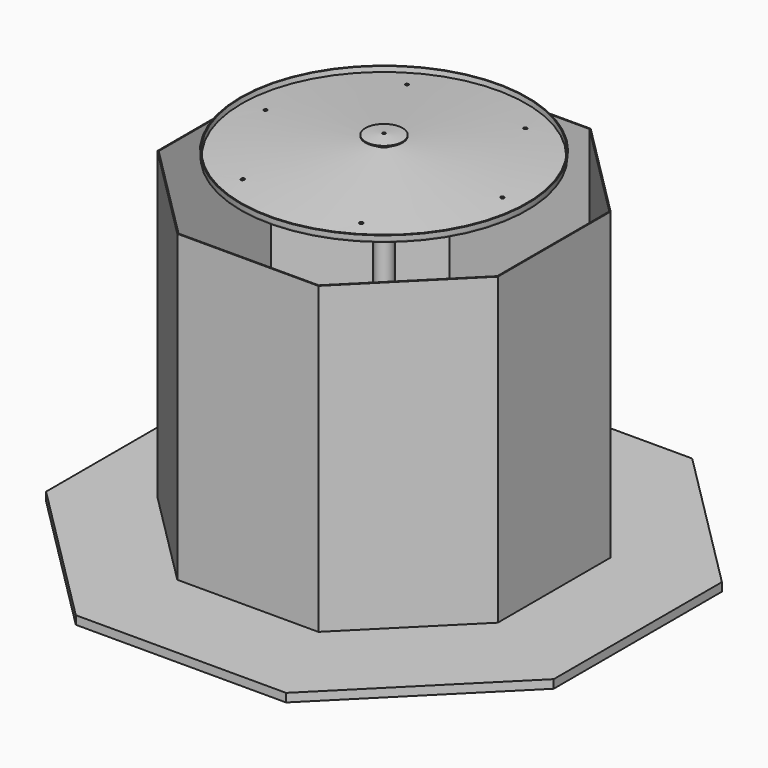
from build123d import *

# Parameters (mm, degrees)
F0_R      = 25
F0_R_2    = 23.75
F1_DEPTH  = 1000
F0_R_3    = 5
F0_R_4    = 4.5
F2_DEPTH  = 25
F6_R      = 5
F7_DEPTH  = 1025.001
F8_DEPTH  = 900
F9_DEPTH  = 25
F10_R     = 25
F11_DEPTH = 25


with BuildPart() as f1:
    # F0 (on Top) → F1 (new body)
    with BuildSketch(Plane.XY):
        Circle(F0_R)
        Circle(F0_R_2, mode=Mode.SUBTRACT)
    extrude(amount=F1_DEPTH)

    # F3 (on Front) → F4 (revolve)
    with BuildSketch(Plane.XZ):
        Polygon((-25, 996.9885404874), (-25, 1000), (-420.4892951424, 965.3991701292), (-423.4778792367, 965.1377029009), (-423.2164120085, 962.1491188067), align=None)
        Polygon((-423.4778792367, 965.1377029009), (-420.4892951424, 965.3991701292), (-421.7966312836, 980.3420906006), (-424.7852153779, 980.0806233723), align=None)
    revolve(axis=Axis((0, 0, 932.5529038906), (0, 0, -1)))

    # F6 (on face) → F7 (cut, through all)
    with BuildSketch(Plane.XY.offset(1025)):
        with Locations((-350, 0)):
            Circle(F6_R)
        with Locations((-175, 303.1088913246)):
            Circle(F6_R)
        with Locations((175, 303.1088913246)):
            Circle(F6_R)
        with Locations((350, 0)):
            Circle(F6_R)
        with Locations((175, -303.1088913246)):
            Circle(F6_R)
        with Locations((-175, -303.1088913246)):
            Circle(F6_R)
    extrude(amount=-F7_DEPTH, mode=Mode.SUBTRACT)

    # F0 (on Top) → F9 (join)
    with BuildSketch(Plane.XY):
        Circle(F0_R)
        Circle(F0_R_2, mode=Mode.SUBTRACT)
    extrude(amount=-F9_DEPTH)


with BuildPart() as f1b:
    # F0 (on Top) → F1, piece 2 (new body)
    with BuildSketch(Plane.XY):
        Circle(F0_R_3)
        Circle(F0_R_4, mode=Mode.SUBTRACT)
    extrude(amount=F1_DEPTH)

    # F2 (add): a face of the model
    f2_faces = [f1b.faces().sort_by_distance(p)[0] for p in [
        (-4.8585786438, 0, 1000),
    ]]
    extrude(f2_faces, amount=F2_DEPTH)

    # F3 (on Front) → F5 (revolve)
    with BuildSketch(Plane.XZ):
        Polygon((-5, 1021.9885404874), (-5, 1025), (-54.8097349046, 1020.6422128626), (-54.5482676763, 1017.6536287683), align=None)
    revolve(axis=Axis((0, 0, 932.5529038906), (0, 0, -1)))


with BuildPart() as f8:
    # F0 (on Top) → F8 (new body)
    with BuildSketch(Plane.XY):
        Polygon((503, 208.3494218737), (208.3494218737, 503), (-208.3494218737, 503), (-503, 208.3494218737), (-503, -208.3494218737), (-208.3494218737, -503), (208.3494218737, -503), (503, -208.3494218737), align=None)
        Polygon((-500, 207.1067811865), (-207.1067811865, 500), (207.1067811865, 500), (500, 207.1067811865), (500, -207.1067811865), (207.1067811865, -500), (-207.1067811865, -500), (-500, -207.1067811865), align=None, mode=Mode.SUBTRACT)
    extrude(amount=F8_DEPTH)


with BuildPart() as f9:
    # F0 (on Top) → F9, piece 2 (new body)
    with BuildSketch(Plane.XY):
        Circle(F0_R_3)
        Circle(F0_R_4, mode=Mode.SUBTRACT)
    extrude(amount=-F9_DEPTH)


with BuildPart() as f11:
    # F10 (on face) → F11 (new body)
    with BuildSketch(Plane(origin=(0, 0, -25), x_dir=(1, 0, 0), z_dir=(0, 0, -1))):
        Polygon((310.6601717798, -750), (750, -310.6601717798), (750, 310.6601717798), (310.6601717798, 750), (-310.6601717798, 750), (-750, 310.6601717798), (-750, -310.6601717798), (-310.6601717798, -750), align=None)
        Circle(F10_R, mode=Mode.SUBTRACT)
    extrude(amount=F11_DEPTH)


solid = Compound([f1.part, f1b.part, f8.part, f9.part, f11.part])
